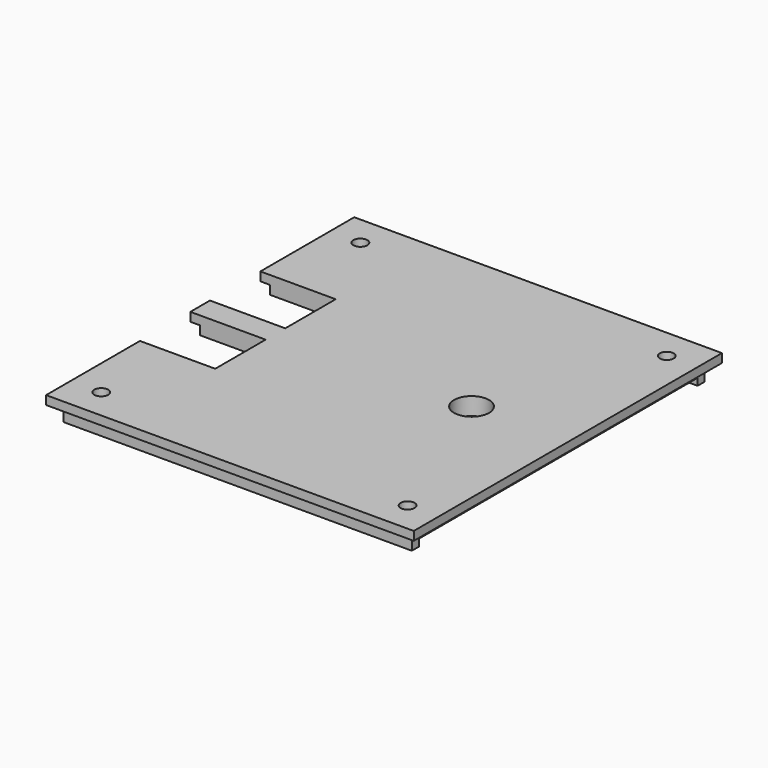
from build123d import *

# Parameters (mm, degrees)
CYLINDER020_R     = 2
CYLINDER020_DEPTH = 100
BOX011_W          = 20
BOX011_H          = 7.2
BOX011_DEPTH      = 10
CYLINDER016_R     = 0.8
CYLINDER016_DEPTH = 20
CYLINDER017_R     = 0.8
CYLINDER017_DEPTH = 20
CYLINDER018_R     = 0.8
CYLINDER018_DEPTH = 20
CYLINDER019_R     = 0.8
CYLINDER019_DEPTH = 20
BOX010_W          = 39.8
BOX010_H          = 1
BOX010_DEPTH      = 0.8
BOX009_W          = 39.8
BOX009_H          = 1
BOX009_DEPTH      = 0.8
BOX007_W          = 20
BOX007_H          = 7.2
BOX007_DEPTH      = 10
BOX006_W          = 42
BOX006_H          = 44
BOX006_DEPTH      = 1
BOX005_W          = 39.8
BOX005_H          = 41.8
BOX005_DEPTH      = 1


with BuildPart() as zylinder020:
    # Cylinder020 → Cylinder020 (new body)
    with BuildSketch(Plane(origin=(30, 21, -50), x_dir=(1, 0, 0), z_dir=(0, 0, 1))):
        Circle(CYLINDER020_R)
    extrude(amount=CYLINDER020_DEPTH)


with BuildPart() as obj1:
    # Box011 → Box011 (new body)
    with BuildSketch(Plane(origin=(-12.4, 22.4, 0), x_dir=(1, 0, 0), z_dir=(0, 0, 1))):
        with Locations((10, 3.6)):
            Rectangle(BOX011_W, BOX011_H)
    extrude(amount=BOX011_DEPTH)


with BuildPart() as zylinder016:
    # Cylinder016 → Cylinder016 (new body)
    with BuildSketch(Plane(origin=(37.5, 2.5, -10), x_dir=(1, 0, 0), z_dir=(0, 0, 1))):
        Circle(CYLINDER016_R)
    extrude(amount=CYLINDER016_DEPTH)


with BuildPart() as zylinder017:
    # Cylinder017 → Cylinder017 (new body)
    with BuildSketch(Plane(origin=(2.5, 2.5, -10), x_dir=(1, 0, 0), z_dir=(0, 0, 1))):
        Circle(CYLINDER017_R)
    extrude(amount=CYLINDER017_DEPTH)


with BuildPart() as zylinder018:
    # Cylinder018 → Cylinder018 (new body)
    with BuildSketch(Plane(origin=(37.5, 39.5, -10), x_dir=(1, 0, 0), z_dir=(0, 0, 1))):
        Circle(CYLINDER018_R)
    extrude(amount=CYLINDER018_DEPTH)


with BuildPart() as compound006:
    # Cylinder019 → Cylinder019 (new body)
    with BuildSketch(Plane(origin=(2.5, 39.5, -10), x_dir=(1, 0, 0), z_dir=(0, 0, 1))):
        Circle(CYLINDER019_R)
    extrude(amount=CYLINDER019_DEPTH)

    # Compound006: union Zylinder016, Zylinder017, Zylinder018
    add(zylinder016.part)
    add(zylinder017.part)
    add(zylinder018.part)


with BuildPart() as obj2:
    # Box010 → Box010 (new body)
    with BuildSketch(Plane(origin=(0.1, 0.1, 0.7), x_dir=(1, 0, 0), z_dir=(0, 0, 1))):
        with Locations((19.9, 0.5)):
            Rectangle(BOX010_W, BOX010_H)
    extrude(amount=BOX010_DEPTH)


with BuildPart() as compound003:
    # Box009 → Box009 (new body)
    with BuildSketch(Plane(origin=(0.1, 40.9, 0.7), x_dir=(1, 0, 0), z_dir=(0, 0, 1))):
        with Locations((19.9, 0.5)):
            Rectangle(BOX009_W, BOX009_H)
    extrude(amount=BOX009_DEPTH)

    # Compound003: union obj2
    add(obj2.part)


with BuildPart() as obj3:
    # Box007 → Box007 (new body)
    with BuildSketch(Plane(origin=(-12.4, 12.4, 0), x_dir=(1, 0, 0), z_dir=(0, 0, 1))):
        with Locations((10, 3.6)):
            Rectangle(BOX007_W, BOX007_H)
    extrude(amount=BOX007_DEPTH)


with BuildPart() as obj4:
    # Box006 → Box006 (new body)
    with BuildSketch(Plane(origin=(-1, -1, 2.5), x_dir=(1, 0, 0), z_dir=(0, 0, 1))):
        with Locations((21, 22)):
            Rectangle(BOX006_W, BOX006_H)
    extrude(amount=BOX006_DEPTH)


with BuildPart() as lowerparthole:
    # Box005 → Box005 (new body)
    with BuildSketch(Plane(origin=(0.1, 0.1, 1.5), x_dir=(1, 0, 0), z_dir=(0, 0, 1))):
        with Locations((19.9, 20.9)):
            Rectangle(BOX005_W, BOX005_H)
    extrude(amount=BOX005_DEPTH)

    # Fusion001: union obj4
    add(obj4.part)

    # Cut003: cut obj3
    add(obj3.part, mode=Mode.SUBTRACT)

    # Fusion003: union Compound003
    add(compound003.part)

    # Cut008: cut Compound006
    add(compound006.part, mode=Mode.SUBTRACT)

    # Cut009: cut obj1
    add(obj1.part, mode=Mode.SUBTRACT)

    # Cut010: cut Zylinder020
    add(zylinder020.part, mode=Mode.SUBTRACT)


solid = lowerparthole.part
